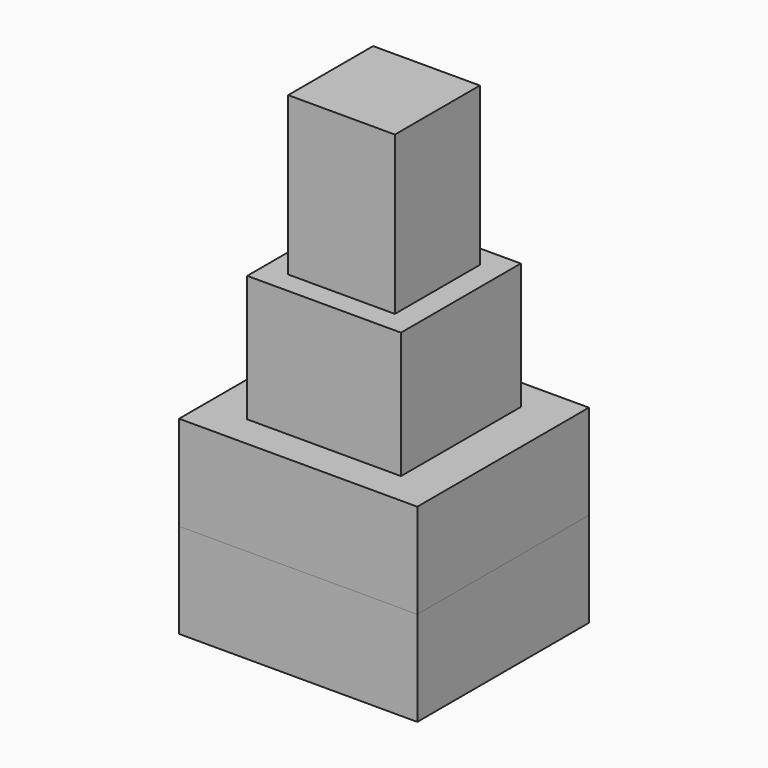
from build123d import *

# Parameters (mm, degrees)
F0_W     = 123.674608
F0_H     = 120.4468
F1_DEPTH = 177.8
F2_W     = 85.865312
F2_H     = 85.42654
F3_DEPTH = 127
F4_W     = 191.604674
F4_H     = 172.551454
F5_DEPTH = 76.2
F6_W     = 191.604674
F6_H     = 172.551454
F7_DEPTH = 76.2


with BuildPart() as f1:
    # F0 (on Top) → F1 (new body)
    with BuildSketch(Plane.XY):
        Rectangle(F0_W, F0_H)
    extrude(amount=F1_DEPTH)

    # F2 (on face) → F3 (join)
    with BuildSketch(Plane.XY.offset(177.8)):
        Rectangle(F2_W, F2_H)
    extrude(amount=F3_DEPTH)

    # F4 (on face) → F5 (join)
    with BuildSketch(Plane.XY):
        Rectangle(F4_W, F4_H)
    extrude(amount=F5_DEPTH)


with BuildPart() as f7:
    # F6 (on face) → F7 (new body)
    with BuildSketch(Plane(origin=(0, 0, 0), x_dir=(1, 0, 0), z_dir=(0, 0, -1))):
        Rectangle(F6_W, F6_H)
    extrude(amount=F7_DEPTH)


solid = Compound([f1.part, f7.part])
